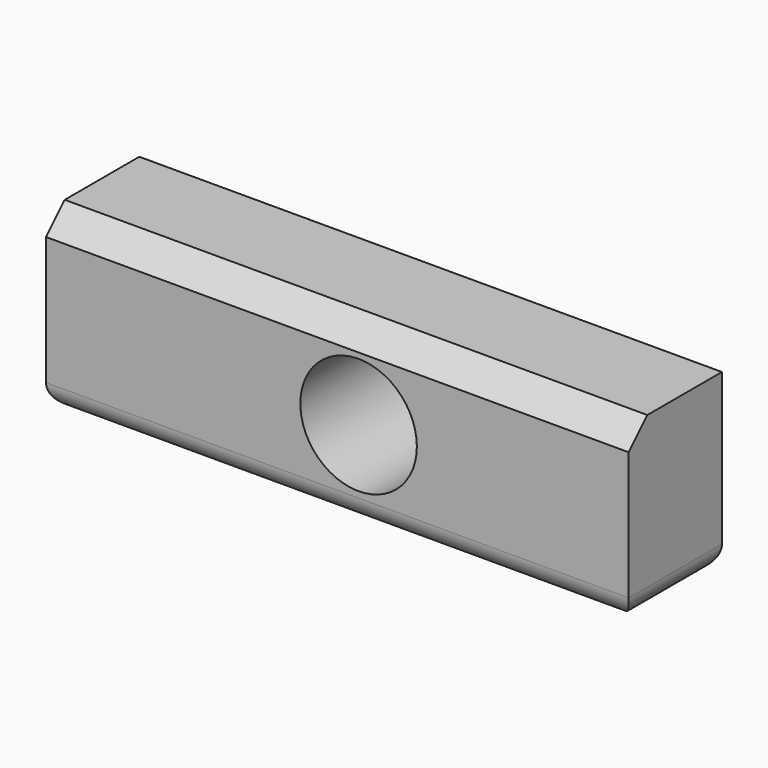
from build123d import *

# Parameters (mm, degrees)
F0_W     = 127
F0_H     = 38.1
F0_R     = 12.7
F1_DEPTH = 25.4
F2_SIZE  = 5.08
F3_R     = 5.08


with BuildPart() as f1:
    # F0 (on Front) → F1 (new body)
    with BuildSketch(Plane.XZ):
        with Locations((-4.620358, -0.047909)):
            Rectangle(F0_W, F0_H)
        Circle(F0_R, mode=Mode.SUBTRACT)
    extrude(amount=F1_DEPTH)

    # F2
    f2_edges = [f1.edges().sort_by_distance(p)[0] for p in [
        (-4.620358, -25.4, 19.002091),
    ]]
    chamfer(f2_edges, length=F2_SIZE)

    # F3
    f3_edges = [f1.edges().sort_by_distance(p)[0] for p in [
        (-68.120358, -12.7, -19.097909),
        (58.879642, -12.7, -19.097909),
        (-4.620358, 0, -19.097909),
        (-4.620358, -25.4, -19.097909),
    ]]
    fillet(f3_edges, radius=F3_R)


solid = f1.part
